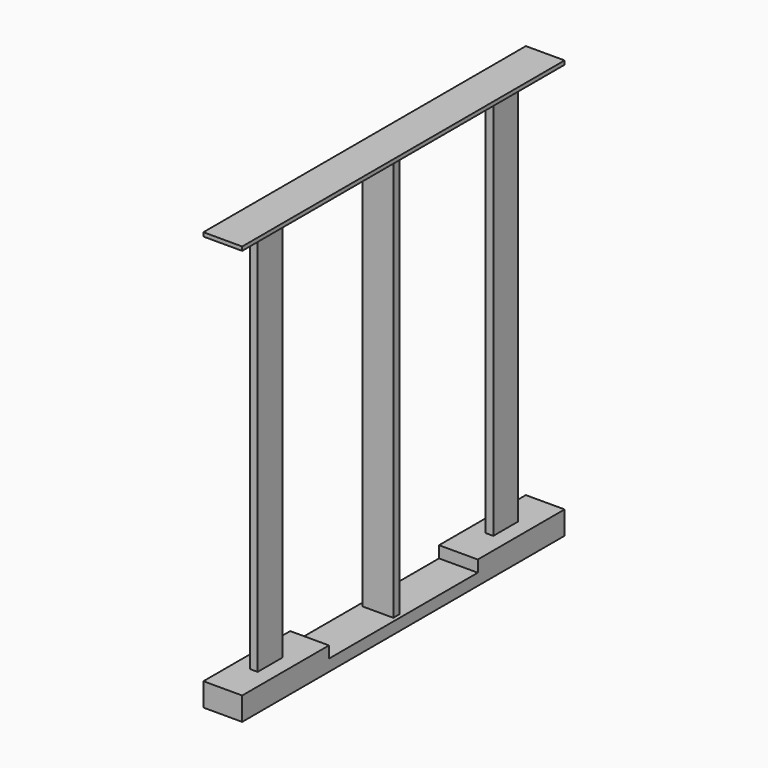
from build123d import *

# Parameters (mm, degrees)
F1_DEPTH = 63.5
F3_W     = 50.8
F3_H     = 12.7
F4_DEPTH = 660.4
F2_W     = 12.7
F2_H     = 50.8
F5_DEPTH = 641.35
F6_W     = 63.5
F6_H     = 660.4
F7_DEPTH = 6.35


with BuildPart() as f1:
    # F0 (on Right) → F1 (new body)
    with BuildSketch(Plane.YZ):
        Polygon((-660.4, 0), (0, 0), (0, 38.1), (-177.8, 38.1), (-177.8, 19.05), (-482.6, 19.05), (-482.6, 38.1), (-660.4, 38.1), align=None)
    extrude(amount=F1_DEPTH)

    # F3 (on face) → F4 (join)
    with BuildSketch(Plane.XY.offset(19.05)):
        with Locations((31.75, -336.55)):
            Rectangle(F3_W, F3_H)
    extrude(amount=F4_DEPTH)

    # F2 (on face) → F5 (join)
    with BuildSketch(Plane.XY.offset(38.1)):
        with Locations((31.75, -571.5)):
            Rectangle(F2_W, F2_H)
        with Locations((31.75, -88.9)):
            Rectangle(F2_W, F2_H)
    extrude(amount=F5_DEPTH)

    # F6 (on face) → F7 (join)
    with BuildSketch(Plane.XY.offset(679.45)):
        with Locations((31.75, -330.2)):
            Rectangle(F6_W, F6_H)
    extrude(amount=F7_DEPTH)


solid = f1.part
